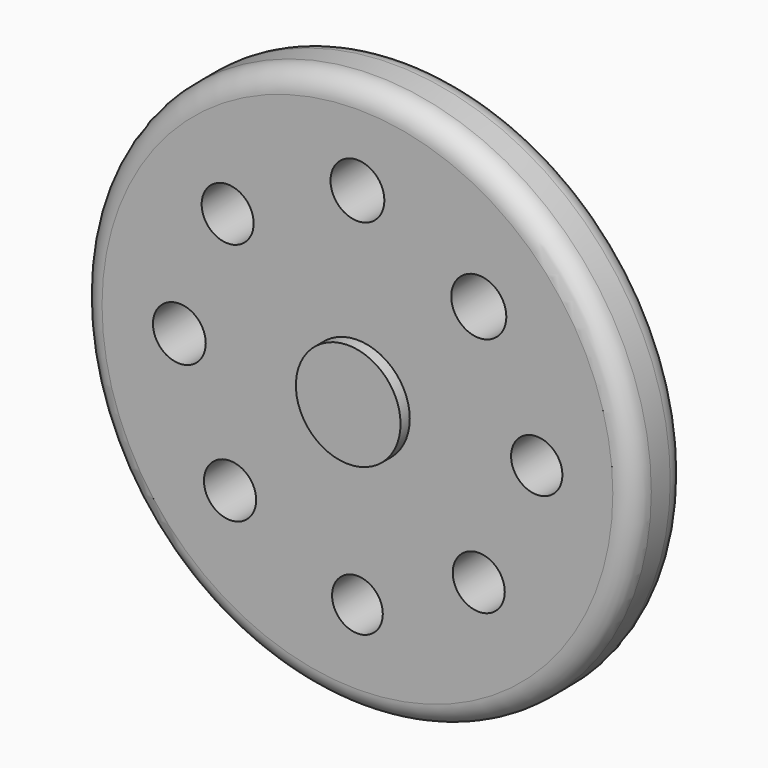
from build123d import *

# Parameters (mm, degrees)
F0_R     = 15.875
F1_DEPTH = 3.81
F3_R     = 1.454915
F3_R_2   = 1.498047
F3_R_3   = 1.514597
F3_R_4   = 1.491631
F3_R_5   = 1.471893
F3_R_6   = 1.580597
F3_R_7   = 1.544444
F4_DEPTH = 25.4
F6_R     = 1.22642
F7_R     = 1.202977
F8_DEPTH = 5.3594
F5_R     = 3.001673
F9_DEPTH = 0.6604


with BuildPart() as f1:
    # F0 (on Front) → F1 (new body)
    with BuildSketch(Plane.XZ):
        Circle(F0_R)
    extrude(amount=F1_DEPTH)

    # F3 (on face) → F4 (cut)
    with BuildSketch(Plane.XZ.offset(3.81)):
        with Locations((0, -10.367244)):
            Circle(F3_R)
        with Locations((-7.305188, -6.974129)):
            Circle(F3_R_2)
        with Locations((-10.213573, 0)):
            Circle(F3_R_3)
        with Locations((-7.443683, 6.944567)):
            Circle(F3_R_4)
        with Locations((10.28361, 0)):
            Circle(F3_R_5)
        with Locations((6.959744, -6.974129)):
            Circle(F3_R_4)
        with Locations((6.959744, 6.944567)):
            Circle(F3_R_6)
        with Locations((0, 10.545424)):
            Circle(F3_R_7)
    extrude(amount=-F4_DEPTH, mode=Mode.SUBTRACT)

    # F6
    f6_edges = [f1.edges().sort_by_distance(p)[0] for p in [
        (15.875, -1.905, 0),
        (-15.875, 0, 0),
        (-15.875, -3.81, 0),
    ]]
    fillet(f6_edges, radius=F6_R)

    # F7 (on face) → F8 (join)
    with BuildSketch(Plane(origin=(0, 0, 0), x_dir=(-1, 0, 0), z_dir=(0, 1, 0))):
        Circle(F7_R)
    extrude(amount=F8_DEPTH)

    # F5 (on face) → F9 (join)
    with BuildSketch(Plane.XZ.offset(3.81)):
        Circle(F5_R)
    extrude(amount=F9_DEPTH)


solid = f1.part
